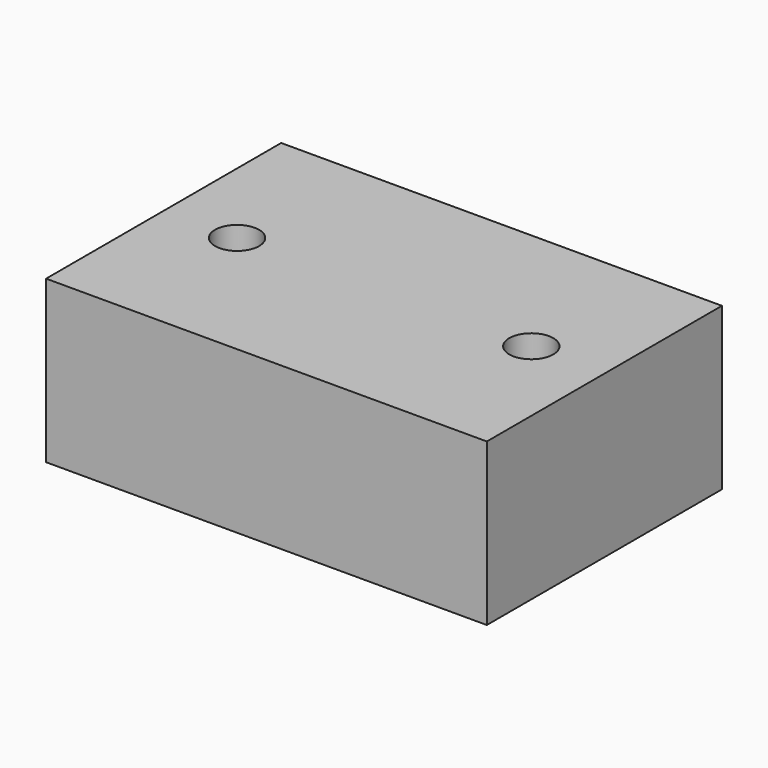
from build123d import *

# Parameters (mm, degrees)
SKETCH_W  = 30
SKETCH_H  = 20
SKETCH_R  = 1.5
PAD_DEPTH = 11


with BuildPart() as part:
    # Sketch → Pad (new body)
    with BuildSketch(Plane.XY):
        with Locations((15, 10)):
            Rectangle(SKETCH_W, SKETCH_H)
        with Locations((5, 10)):
            Circle(SKETCH_R, mode=Mode.SUBTRACT)
        with Locations((25, 10.033361)):
            Circle(SKETCH_R, mode=Mode.SUBTRACT)
    extrude(amount=PAD_DEPTH)


solid = part.part
